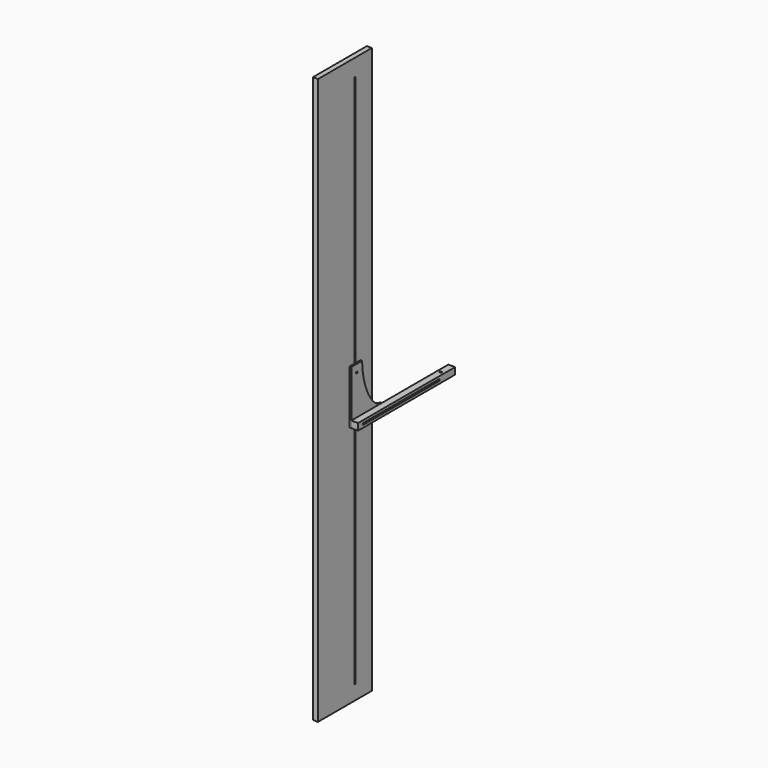
from build123d import *

# Parameters (mm, degrees)
F0_W     = 254
F0_H     = 2133.6
F0_W_2   = 6.35
F0_H_2   = 2015.2593255043
F1_DEPTH = 19.05
F2_R     = 3.175
F3_DEPTH = 6.35
F4_W     = 457.2
F4_H     = 25.4
F5_DEPTH = 25.4
F6_R     = 3.96875
F7_DEPTH = 25.4


with BuildPart() as f1:
    # F0 (on Right) → F1 (new body)
    with BuildSketch(Plane.YZ):
        with Locations((-21.9549427276, -4.1780695319)):
            Rectangle(F0_W, F0_H)
        with Locations((25.6700572724, -8.9709460735)):
            Rectangle(F0_W_2, F0_H_2, mode=Mode.SUBTRACT)
    extrude(amount=F1_DEPTH)


with BuildPart() as f3:
    # F2 (on face) → F3 (new body)
    with BuildSketch(Plane.YZ.offset(19.05)):
        with BuildLine():
            Line((51.0700572724, 48.4457026833), (0.2700572724, 48.4457026833))
            Line((0.2700572724, 48.4457026833), (0.2700572724, -154.7542973167))
            Line((0.2700572724, -154.7542973167), (51.0700572724, -154.7542973167))
            Line((51.0700572724, -154.7542973167), (144.5092558861, -154.7542973167))
            Line((144.5092558861, -154.7542973167), (144.5092558861, -129.3542973167))
            add(Edge.make_bspline(
                [(51.0700572724, 48.4457026833), (51.0700572724, -40.4542973167), (97.7896565792, -129.3542973167), (144.5092558861, -129.3542973167)],
                knots=[0, 0, 0, 0, 200.8574714507, 200.8574714507, 200.8574714507, 200.8574714507], degree=3))
        make_face()
        with Locations((25.6700572724, -142.0542973167)):
            Circle(F2_R, mode=Mode.SUBTRACT)
        with Locations((108.5868701339, -142.0542973167)):
            Circle(F2_R, mode=Mode.SUBTRACT)
        with Locations((25.6700572724, 19.5489432663)):
            Circle(F2_R, mode=Mode.SUBTRACT)
    extrude(amount=F3_DEPTH)


with BuildPart() as f5:
    # F4 (on face) → F5 (new body)
    with BuildSketch(Plane.YZ.offset(25.4)):
        with Locations((228.8700572724, -142.0542973167)):
            Rectangle(F4_W, F4_H)
        with BuildLine():
            ThreePointArc((25.7690340547, -145.2277542011), (22.4954430748, -142.1037917221), (25.6700572724, -138.8792973167))
            Line((25.6700572724, -138.8792973167), (381.2700572724, -138.8792973167))
            ThreePointArc((381.2700572724, -138.8792973167), (384.4442857146, -142.0535257589), (381.2700572724, -145.2277542011))
            Line((381.2700572724, -145.2277542011), (25.7690340547, -145.2277542011))
        make_face(mode=Mode.SUBTRACT)
    extrude(amount=F5_DEPTH)

    # F6 (on face) → F7 (cut)
    with BuildSketch(Plane.XY.offset(-129.3542973167)):
        with Locations((38.1, 406.6700572724)):
            Circle(F6_R)
    extrude(amount=-F7_DEPTH, mode=Mode.SUBTRACT)


solid = Compound([f1.part, f3.part, f5.part])
